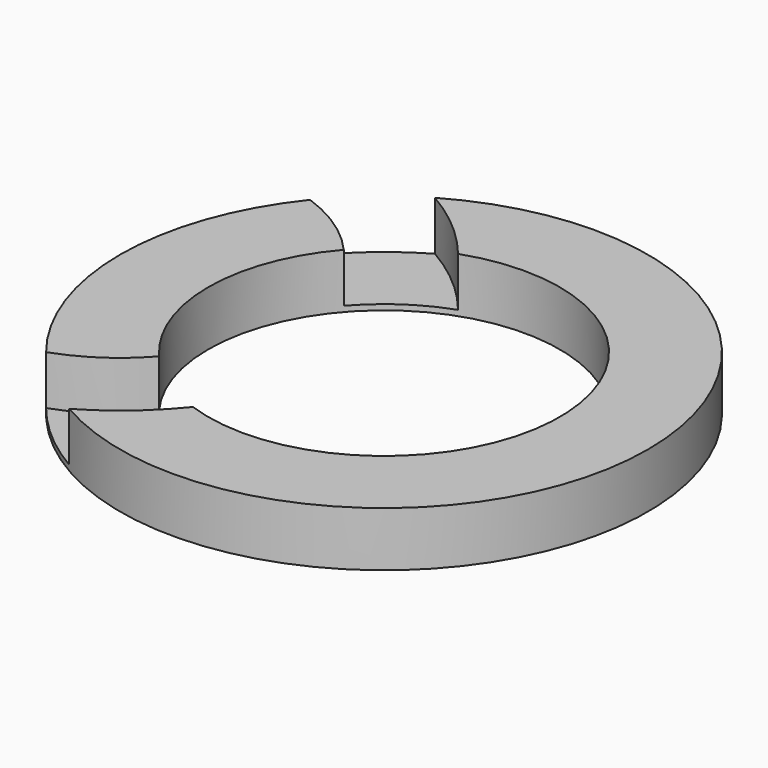
from build123d import *

# Parameters (mm, degrees)
F0_W   = 41.94641
F0_H   = 26.064575
F0_W_2 = 42.390289
F0_H_2 = 29.70939


with BuildPart() as f1:
    # F0 (on Front) → F1 (revolve)
    with BuildSketch(Plane.XZ):
        with Locations((-37.19489, -6.956225)):
            Rectangle(F0_W, F0_H)
    revolve(axis=Axis((67.449205, 0, -2.508159), (0, 0, -1)))


with BuildPart() as f2:
    # F0 (on Front) → F2 (revolve)
    with BuildSketch(Plane.XZ):
        with Locations((46.25406, -2.508159)):
            Rectangle(F0_W_2, F0_H_2)
    revolve(axis=Axis((-58.168095, 0, -6.956225), (0, 0, -1)))


with BuildPart() as f1_1:
    add(f1.part)

    # F3: cut F2
    add(f2.part, mode=Mode.SUBTRACT)


solid = f1_1.part
